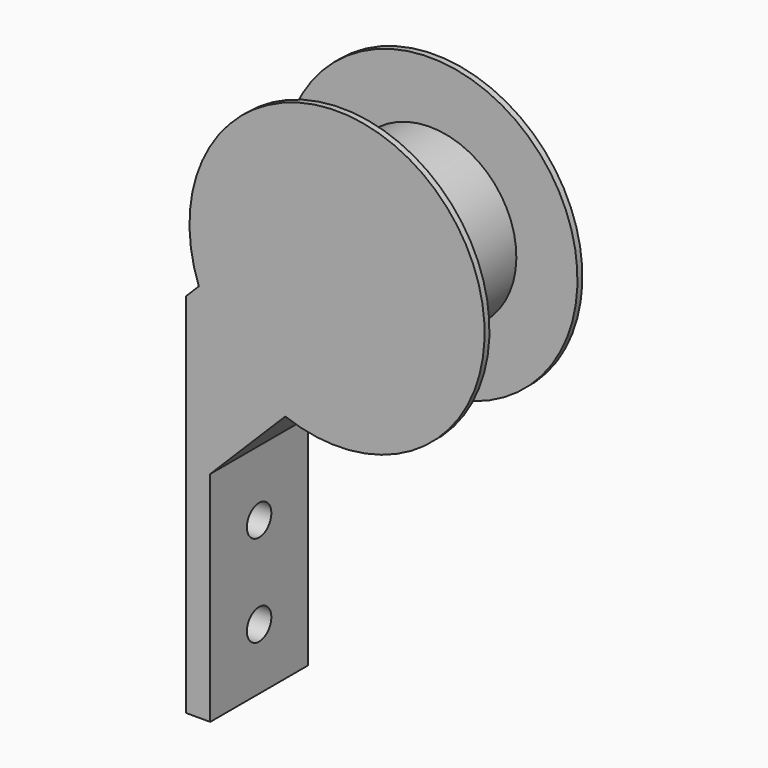
from build123d import *

# Parameters (mm, degrees)
F1_DEPTH      = 12.7
F1_DEPTH_BACK = 12.7
F2_DEPTH      = 11.43
F2_DEPTH_BACK = 11.43
F3_W          = 25.4
F3_H          = 76.2
F4_DEPTH      = 5.08
F6_D          = 6.35


with BuildPart() as f1:
    # F0 (on Front) → F1 (new body, two sides)
    with BuildSketch(Plane.XZ) as f1_sk:
        with BuildLine():
            Line((0, 17.9605122421), (0, -17.9605122421))
            Line((0, -17.9605122421), (20.6782230746, 2.7177108325))
            Line((20.6782230746, 2.7177108325), (28.2681090435, 10.3075968013))
            ThreePointArc((28.2681090435, 10.3075968013), (31.2921928816, 12.5440252054), (34.8386907134, 13.7966417449))
            ThreePointArc((34.8386907134, 13.7966417449), (44.1308964237, 44.1308964237), (13.7966417449, 34.8386907134))
            ThreePointArc((13.7966417449, 34.8386907134), (12.5440252054, 31.2921928816), (10.3075968013, 28.2681090435))
            Line((10.3075968013, 28.2681090435), (2.7177108325, 20.6782230746))
            Line((2.7177108325, 20.6782230746), (0, 17.9605122421))
        make_face()
        with BuildLine():
            Line((28.2681090435, 10.3075968013), (20.6782230746, 2.7177108325))
            ThreePointArc((20.6782230746, 2.7177108325), (53.1111525448, 53.1111525448), (2.7177108325, 20.6782230746))
            Line((2.7177108325, 20.6782230746), (10.3075968013, 28.2681090435))
            ThreePointArc((10.3075968013, 28.2681090435), (12.5440252054, 31.2921928816), (13.7966417449, 34.8386907134))
            ThreePointArc((13.7966417449, 34.8386907134), (44.1308964237, 44.1308964237), (34.8386907134, 13.7966417449))
            ThreePointArc((34.8386907134, 13.7966417449), (31.2921928816, 12.5440252054), (28.2681090435, 10.3075968013))
        make_face()
    extrude(amount=F1_DEPTH)
    extrude(f1_sk.sketch, amount=-F1_DEPTH_BACK)

    # F0 (on Front) → F2 (cut, two sides)
    with BuildSketch(Plane.XZ) as f2_sk:
        with BuildLine():
            Line((28.2681090435, 10.3075968013), (20.6782230746, 2.7177108325))
            ThreePointArc((20.6782230746, 2.7177108325), (53.1111525448, 53.1111525448), (2.7177108325, 20.6782230746))
            Line((2.7177108325, 20.6782230746), (10.3075968013, 28.2681090435))
            ThreePointArc((10.3075968013, 28.2681090435), (12.5440252054, 31.2921928816), (13.7966417449, 34.8386907134))
            ThreePointArc((13.7966417449, 34.8386907134), (44.1308964237, 44.1308964237), (34.8386907134, 13.7966417449))
            ThreePointArc((34.8386907134, 13.7966417449), (31.2921928816, 12.5440252054), (28.2681090435, 10.3075968013))
        make_face()
    extrude(amount=-F2_DEPTH, mode=Mode.SUBTRACT)
    extrude(f2_sk.sketch, amount=F2_DEPTH_BACK, mode=Mode.SUBTRACT)

    # F3 (on Right) → F4 (join)
    with BuildSketch(Plane.YZ):
        with Locations((0, -20.1394877579)):
            Rectangle(F3_W, F3_H)
    extrude(amount=F4_DEPTH)

    # F6 (through all)
    with Locations(Plane.YZ.offset(5.08)):
        with Locations((0, -26.4894877579), (0, -45.5394877579)):
            Hole(F6_D / 2)


solid = f1.part
